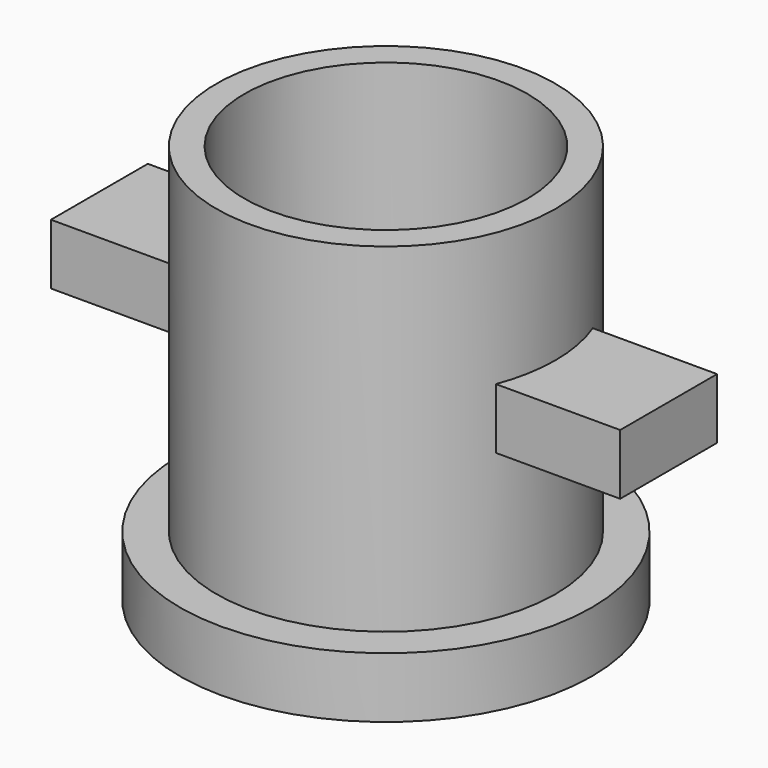
from build123d import *

# Parameters (mm, degrees)
CYLINDER093_R     = 1.5
CYLINDER093_DEPTH = 14
CYLINDER090_R     = 11.7
CYLINDER090_DEPTH = 33
CYLINDER094_R     = 1.5
CYLINDER094_DEPTH = 14
CYLINDER088_R     = 14
CYLINDER088_DEPTH = 33
BOX016_W          = 47
BOX016_H          = 10
BOX016_DEPTH      = 5
CYLINDER084_R     = 17
CYLINDER084_DEPTH = 5


with BuildPart() as obj1:
    # Cylinder093 → Cylinder093 (new body)
    with BuildSketch(Plane(origin=(53.66, 148, -15), x_dir=(1, 0, 0), z_dir=(0, 0, 1))):
        Circle(CYLINDER093_R)
    extrude(amount=CYLINDER093_DEPTH)


with BuildPart() as obj2:
    # Cylinder090 → Cylinder090 (new body)
    with BuildSketch(Plane(origin=(73.66, 148, -10), x_dir=(1, 0, 0), z_dir=(0, 0, 1))):
        Circle(CYLINDER090_R)
    extrude(amount=CYLINDER090_DEPTH)


with BuildPart() as fusion039:
    # Cylinder094 → Cylinder094 (new body)
    with BuildSketch(Plane(origin=(93.66, 148, -14), x_dir=(1, 0, 0), z_dir=(0, 0, 1))):
        Circle(CYLINDER094_R)
    extrude(amount=CYLINDER094_DEPTH)

    # Fusion039: union obj1, obj2
    add(obj1.part)
    add(obj2.part)


with BuildPart() as obj3:
    # Cylinder088 → Cylinder088 (new body)
    with BuildSketch(Plane(origin=(73.66, 148, -10), x_dir=(1, 0, 0), z_dir=(0, 0, 1))):
        Circle(CYLINDER088_R)
    extrude(amount=CYLINDER088_DEPTH)


with BuildPart() as obj4:
    # Box016 → Box016 (new body)
    with BuildSketch(Plane(origin=(50, 143, 7), x_dir=(1, 0, 0), z_dir=(0, 0, 1))):
        with Locations((23.5, 5)):
            Rectangle(BOX016_W, BOX016_H)
    extrude(amount=BOX016_DEPTH)


with BuildPart() as obj5:
    # Cylinder084 → Cylinder084 (new body)
    with BuildSketch(Plane(origin=(73.66, 148, -10), x_dir=(1, 0, 0), z_dir=(0, 0, 1))):
        Circle(CYLINDER084_R)
    extrude(amount=CYLINDER084_DEPTH)

    # Fusion038: union obj3, obj4
    add(obj3.part)
    add(obj4.part)

    # Cut010: cut Fusion039
    add(fusion039.part, mode=Mode.SUBTRACT)


with BuildPart() as obj5_1:
    # Cut010 placement: moved
    add(obj5.part.moved(Location((0, 0, 5))))


solid = obj5_1.part
